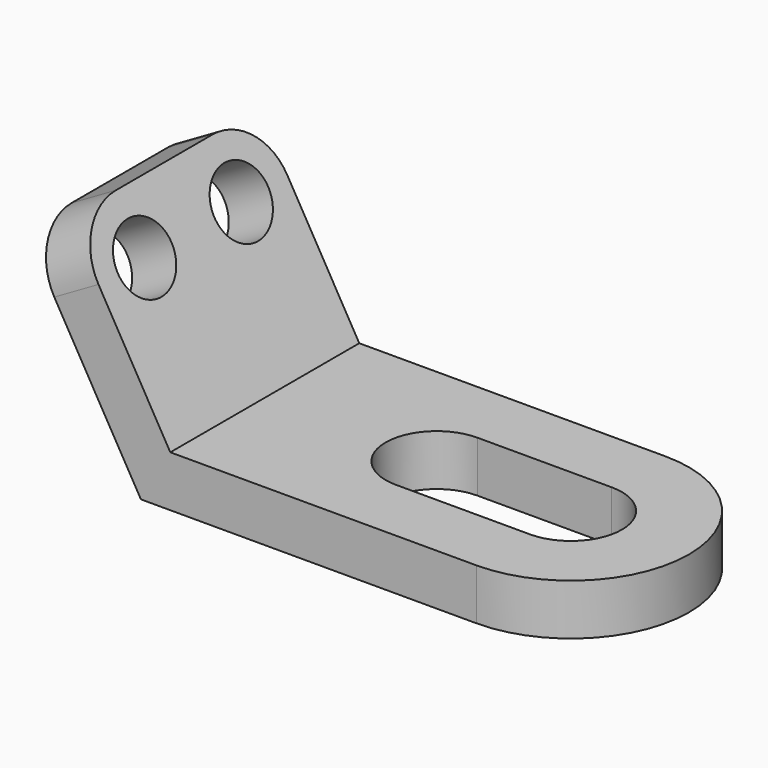
from build123d import *

# Parameters (mm, degrees)
F2_R     = 6.35
F3_DEPTH = 9.652
F4_DEPTH = 9.652


with BuildPart() as f3:
    # F2 (on face) → F3 (new body)
    with BuildSketch(Plane(origin=(-47.625, 0, -27.496307), x_dir=(0, 1, 0), z_dir=(0.866025, 0, 0.5))):
        with BuildLine():
            Line((-22.352, 31.75), (22.352, 31.75))
            Line((22.352, 31.75), (22.352, 64.516))
            ThreePointArc((22.352, 64.516), (19.15302, 72.23902), (11.43, 75.438))
            Line((11.43, 75.438), (-11.43, 75.438))
            ThreePointArc((-11.43, 75.438), (-19.15302, 72.23902), (-22.352, 64.516))
            Line((-22.352, 64.516), (-22.352, 31.75))
        make_face()
        with Locations((-11.43, 64.516)):
            Circle(F2_R, mode=Mode.SUBTRACT)
        with Locations((11.43, 64.516)):
            Circle(F2_R, mode=Mode.SUBTRACT)
    extrude(amount=F3_DEPTH)

    # F0 (on Top) → F4 (join)
    with BuildSketch(Plane.XY):
        with BuildLine():
            Line((-63.5, -22.352), (0, -22.352))
            ThreePointArc((0, -22.352), (22.352, 0), (0, 22.352))
            Line((0, 22.352), (-63.5, 22.352))
            Line((-63.5, 22.352), (-63.5, -22.352))
        make_face()
        with BuildLine():
            ThreePointArc((0, 9.652), (9.652, 0), (0, -9.652))
            Line((0, -9.652), (-25.4, -9.652))
            ThreePointArc((-25.4, -9.652), (-35.052, 0), (-25.4, 9.652))
            Line((-25.4, 9.652), (0, 9.652))
        make_face(mode=Mode.SUBTRACT)
    extrude(amount=F4_DEPTH)


solid = f3.part
